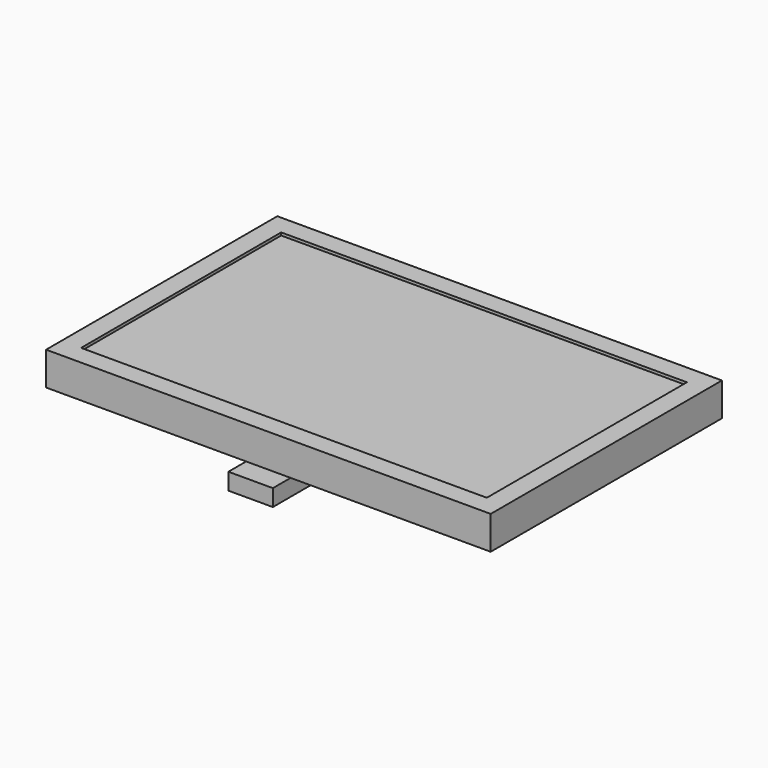
from build123d import *

# Parameters (mm, degrees)
F0_W     = 800
F0_H     = 520
F1_DEPTH = 60
F2_W     = 400
F2_H     = 200
F3_DEPTH = 30
F4_W     = 80
F4_H     = 30
F5_DEPTH = 200
F6_W     = 730
F6_H     = 450
F7_DEPTH = 5


with BuildPart() as f1:
    # F0 (on Top) → F1 (new body)
    with BuildSketch(Plane.XY):
        with Locations((-400, -260)):
            Rectangle(F0_W, F0_H)
    extrude(amount=F1_DEPTH)

    # F2 (on face) → F3 (join)
    with BuildSketch(Plane(origin=(0, 0, 0), x_dir=(1, 0, 0), z_dir=(0, 0, -1))):
        with Locations((-400, 260)):
            Rectangle(F2_W, F2_H)
    extrude(amount=F3_DEPTH)

    # F4 (on face) → F5 (join)
    with BuildSketch(Plane.XZ.offset(360)):
        with Locations((-400, -15)):
            Rectangle(F4_W, F4_H)
    extrude(amount=F5_DEPTH)

    # F6 (on face) → F7 (cut)
    with BuildSketch(Plane.XY.offset(60)):
        with Locations((-400, -260)):
            Rectangle(F6_W, F6_H)
    extrude(amount=-F7_DEPTH, mode=Mode.SUBTRACT)


solid = f1.part
